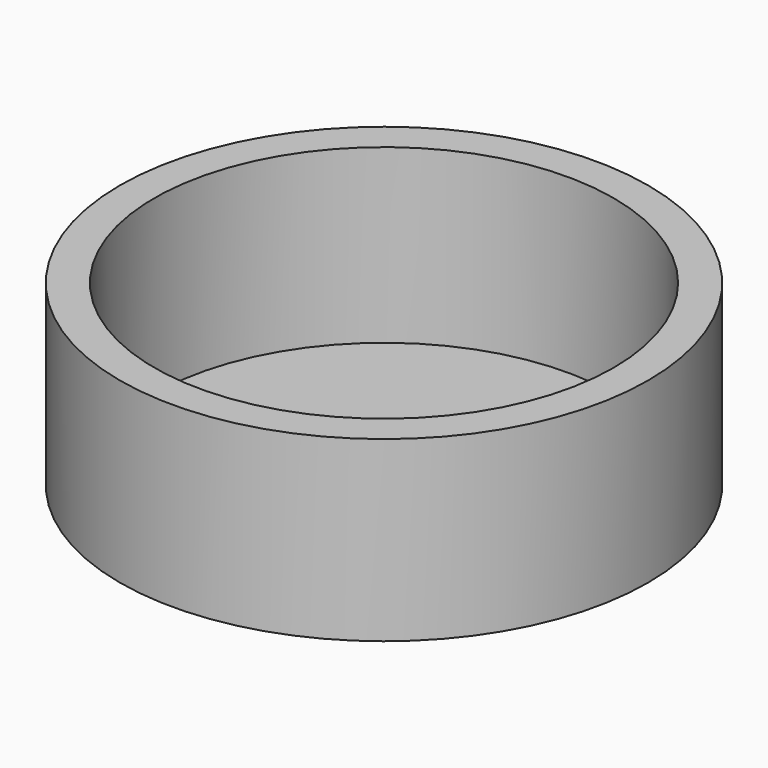
from build123d import *

# Parameters (mm, degrees)
F0_R     = 23
F0_R_2   = 20
F1_DEPTH = 15
F2_R     = 23
F3_DEPTH = 0.5


with BuildPart() as f1:
    # F0 (on Top) → F1 (new body)
    with BuildSketch(Plane.XY):
        Circle(F0_R)
        Circle(F0_R_2, mode=Mode.SUBTRACT)
    extrude(amount=F1_DEPTH)

    # F2 (on Top) → F3 (join)
    with BuildSketch(Plane.XY):
        Circle(F2_R)
    extrude(amount=-F3_DEPTH)


solid = f1.part
